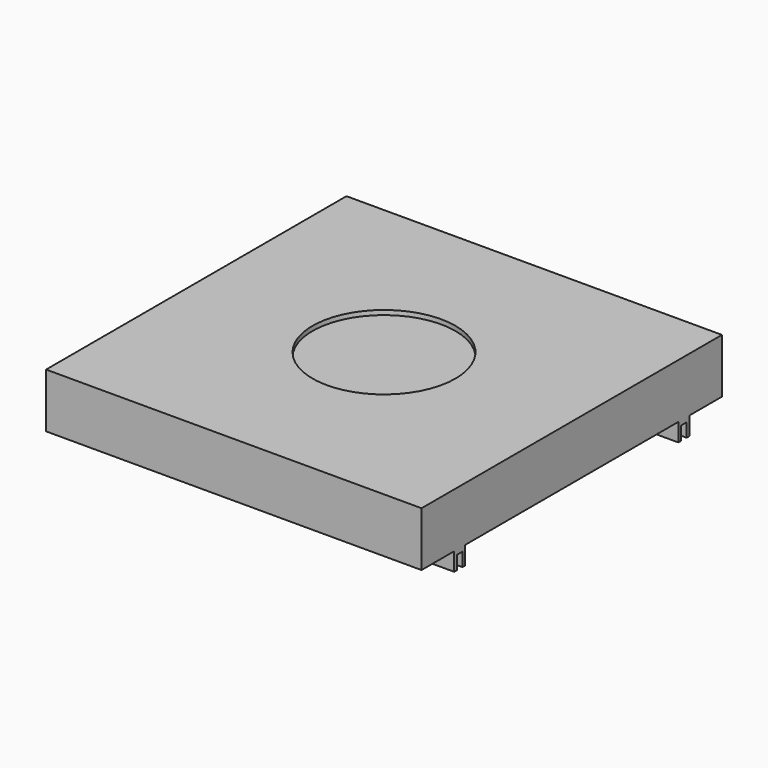
from build123d import *

# Parameters (mm, degrees)
F0_W     = 2101.85
F0_H     = 2101.85
F1_DEPTH = 304.8
F2_R     = 400.05
F3_DEPTH = 25.4
F4_W     = 2101.85
F4_H     = 76.2
F5_DEPTH = 101.6
F6_W     = 38.1
F6_H     = 76.2
F7_DEPTH = 2101.851


with BuildPart() as f1:
    # F0 (on Top) → F1 (new body)
    with BuildSketch(Plane.XY):
        Rectangle(F0_W, F0_H)
    extrude(amount=F1_DEPTH)

    # F2 (on face) → F3 (cut)
    with BuildSketch(Plane.XY.offset(304.8)):
        Circle(F2_R)
    extrude(amount=-F3_DEPTH, mode=Mode.SUBTRACT)

    # F4 (on face) → F5 (join)
    with BuildSketch(Plane(origin=(0, 0, 0), x_dir=(1, 0, 0), z_dir=(0, 0, -1))):
        with Locations((0, 784.225)):
            Rectangle(F4_W, F4_H)
        with Locations((0, -784.225)):
            Rectangle(F4_W, F4_H)
    extrude(amount=F5_DEPTH)

    # F6 (on face) → F7 (cut, through all)
    with BuildSketch(Plane(origin=(-1050.925, 0, 0), x_dir=(0, -1, 0), z_dir=(-1, 0, 0))):
        with Locations((-784.225, -63.5)):
            Rectangle(F6_W, F6_H)
        with Locations((784.225, -63.5)):
            Rectangle(F6_W, F6_H)
    extrude(amount=-F7_DEPTH, mode=Mode.SUBTRACT)


solid = f1.part
